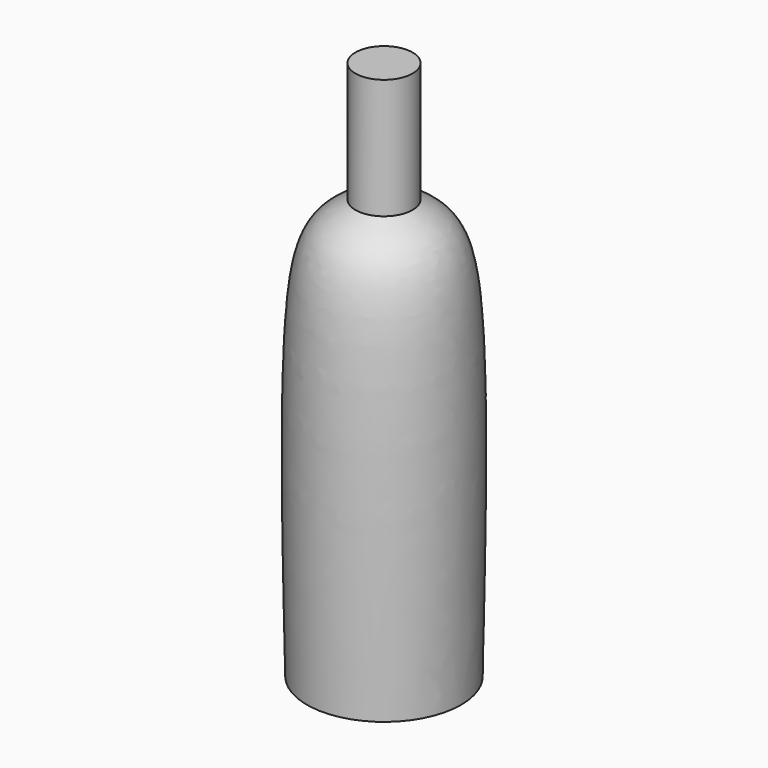
from build123d import *


with BuildPart() as f1:
    # F0 (on Front) → F1 (revolve)
    with BuildSketch(Plane.XZ):
        with BuildLine():
            Line((0, 350), (0, 0))
            Line((0, 0), (50, 0))
            add(Edge.make_bspline(
                [(50, 0), (51.5227542431, 77.5586406453), (53.8316744946, 195.1591772265), (43.7424348606, 257.6621230934), (25.7782409996, 267.9528855143), (18.5114126652, 272.1156775951)],
                knots=[0, 0, 0, 0, 0.5356207908, 0.8121505467, 1, 1, 1, 1], degree=3))
            Line((18.5114126652, 272.1156775951), (18.5114126652, 350))
            Line((18.5114126652, 350), (0, 350))
        make_face()
    revolve(axis=Axis((0, 0, 175), (0, 0, 1)))


solid = f1.part
